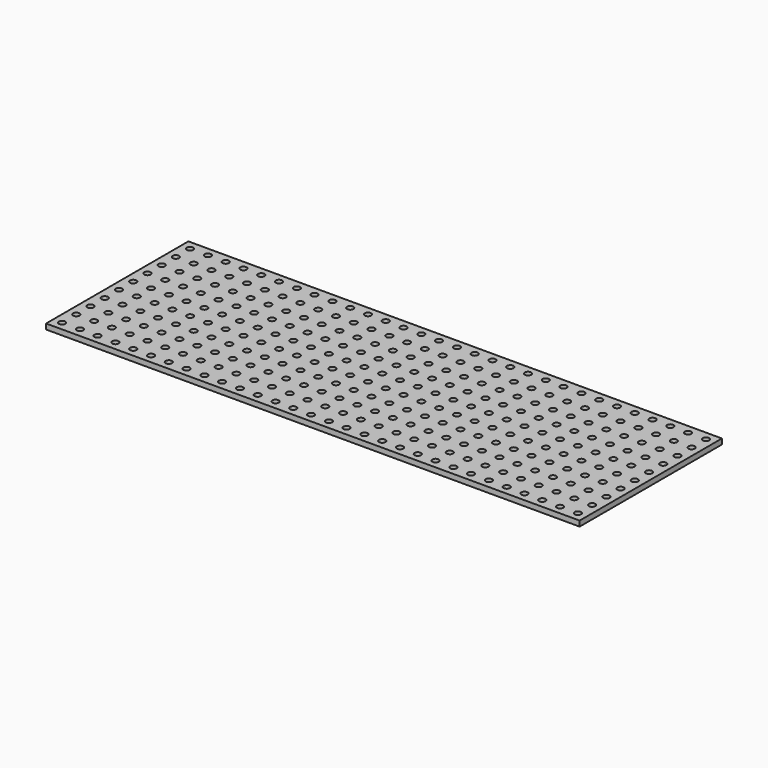
from build123d import *

# Parameters (mm, degrees)
CYLINDER_R     = 1.8
CYLINDER_DEPTH = 10
ARRAY_X_COUNT  = 30
ARRAY_X_PITCH  = 10
ARRAY_Y_COUNT  = 10
ARRAY_Y_PITCH  = 10
BOX_W          = 300
BOX_H          = 100
BOX_DEPTH      = 3


with BuildPart() as hole_array:
    # Cylinder → Cylinder (new body)
    with BuildSketch(Plane.XY):
        Circle(CYLINDER_R)
    extrude(amount=CYLINDER_DEPTH)

    # Array X: hole array ×30


with BuildPart() as hole_array_1:
    add(hole_array.part)
    with Locations(*[(i * ARRAY_X_PITCH, 0, 0) for i in range(1, ARRAY_X_COUNT)]):
        add(hole_array.part)

    # Array Y: hole array ×10


with BuildPart() as hole_array_2:
    add(hole_array_1.part)
    with Locations(*[(0, i * ARRAY_Y_PITCH, 0) for i in range(1, ARRAY_Y_COUNT)]):
        add(hole_array_1.part)


with BuildPart() as hole_array_3:
    # Array placement: moved
    add(hole_array_2.part.moved(Location((5, 5, 0))))


with BuildPart() as model_hole_plate_cut:
    # Box → Box (new body)
    with BuildSketch(Plane.XY):
        with Locations((150, 50)):
            Rectangle(BOX_W, BOX_H)
    extrude(amount=BOX_DEPTH)

    # Cut: cut hole array
    add(hole_array_3.part, mode=Mode.SUBTRACT)


solid = model_hole_plate_cut.part
